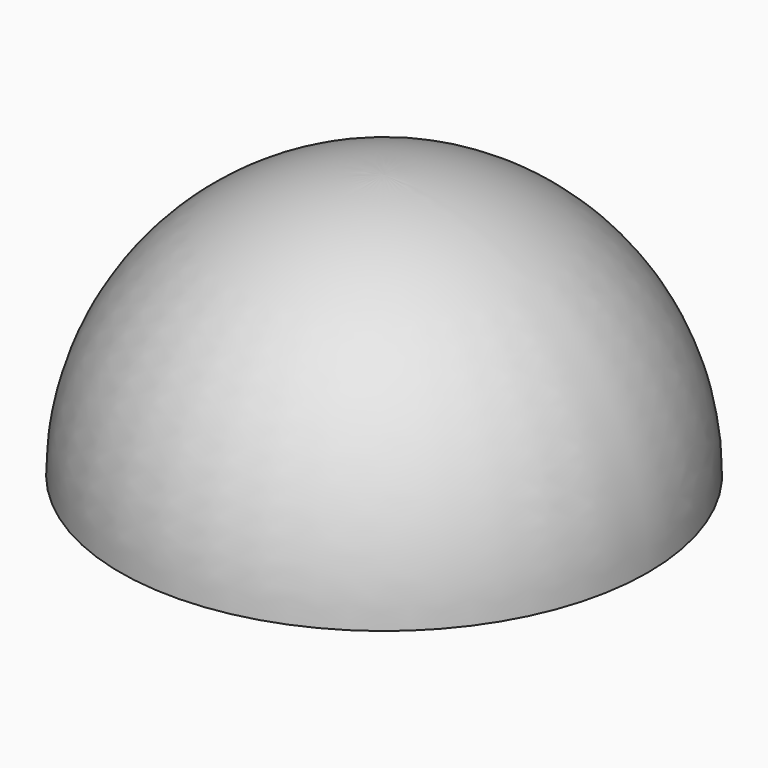
from build123d import *

# Parameters (mm, degrees)
F2_R     = 3
F3_DEPTH = 6
F4_R     = 1
F5_R     = 1


with BuildPart() as f1:
    # F0 (on Front) → F1 (revolve)
    with BuildSketch(Plane.XZ):
        with BuildLine():
            Line((8.5, 0), (10.5, 0))
            ThreePointArc((10.5, 0), (7.424621, 7.424621), (0, 10.5))
            Line((0, 10.5), (0, 8.5))
            Line((0, 8.5), (0, 5.5))
            Line((0, 5.5), (6.480741, 5.5))
            ThreePointArc((6.480741, 5.5), (7.979232, 2.92948), (8.5, 0))
        make_face()
    revolve(axis=Axis((0, 0, 9.999047), (0, 0, 1)))

    # F2 (on Top) → F3 (join)
    with BuildSketch(Plane.XY):
        Circle(F2_R)
        Polygon((0.7, -2.2), (-0.7, -2.2), (-0.7, -0.75), (-2.25, -0.75), (-2.25, 0.75), (-0.7, 0.75), (-0.7, 2.2), (0.7, 2.2), (0.7, 0.75), (2.25, 0.75), (2.25, -0.75), (0.7, -0.75), align=None, mode=Mode.SUBTRACT)
    extrude(amount=F3_DEPTH)

    # F4
    f4_edges = [f1.edges().sort_by_distance(p)[0] for p in [
        (-3, 0, 5.5),
    ]]
    fillet(f4_edges, radius=F4_R)

    # F5
    f5_edges = [f1.edges().sort_by_distance(p)[0] for p in [
        (-8.5, 0, 0),
    ]]
    fillet(f5_edges, radius=F5_R)


solid = f1.part
